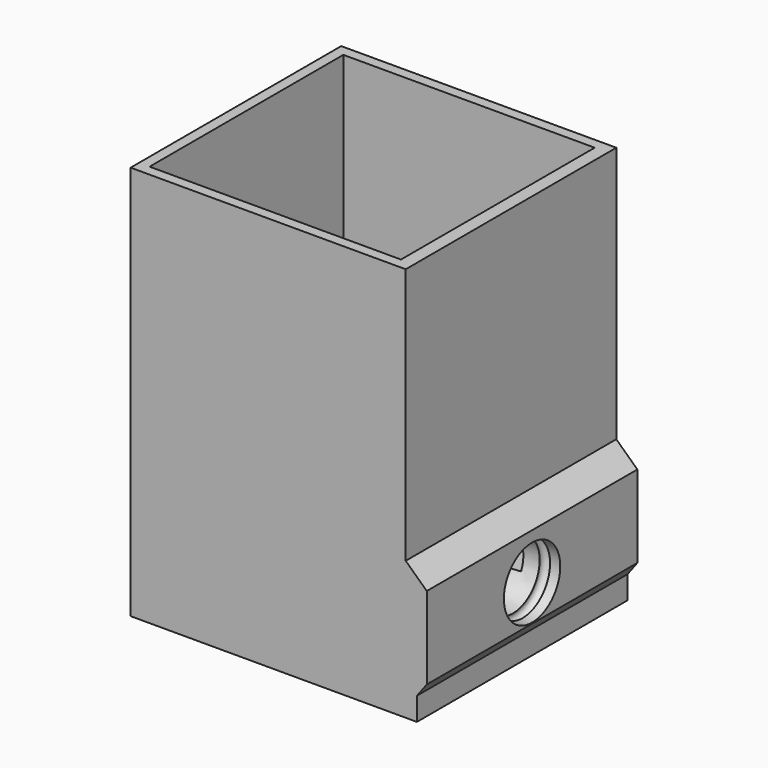
from build123d import *

# Parameters (mm, degrees)
SKETCH010_W  = 45
SKETCH010_H  = 40
PAD005_DEPTH = 60
SKETCH012_W  = 38.2
SKETCH012_H  = 36.8
SKETCH003_R  = 5.4
SKETCH011_R  = 4.4
SKETCH046_R  = 0.8


with BuildPart() as part:
    # Sketch010 → Pad005 (new body)
    with BuildSketch(Plane.XY):
        with Locations((-40.3, 0)):
            Rectangle(SKETCH010_W, SKETCH010_H)
    extrude(amount=PAD005_DEPTH)

    # SubtractivePipe002: sweep along a path in Sketch028
    with BuildLine(Plane.XZ) as subtractivepipe002_path:
        Line((-39, 9), (-39, 60))
    # Sketch012 → SubtractivePipe002 (sweep, cut)
    with BuildSketch(Plane.XY.offset(9)):
        with Locations((-42.1, 0)):
            Rectangle(SKETCH012_W, SKETCH012_H)
    sweep(path=subtractivepipe002_path.line, mode=Mode.SUBTRACT)

    # Sketch003 (on Face10 of SubtractivePipe) → SubtractiveLoft section 0
    with BuildSketch(Plane(origin=(-17.3, 0, 0), x_dir=(0, -1, 0), z_dir=(-1, 0, 0))):
        with Locations((0, 11)):
            Circle(SKETCH003_R)
    # Sketch011 → SubtractiveLoft section 1
    with BuildSketch(Plane(origin=(-27.8, 0, 0), x_dir=(-0.001529, -0.999998, -0.001524), z_dir=(-0.999994, 0.001524, 0.003058))):
        with Locations((0, 11)):
            Circle(SKETCH011_R)
    loft(mode=Mode.SUBTRACT)

    # SubtractivePipe003: sweep along a path in Sketch034
    with BuildLine(Plane.YZ.offset(-17.8)) as subtractivepipe003_path:
        Line((-20, 4), (20, 4))
    # Sketch033 → SubtractivePipe003 (sweep, cut)
    with BuildSketch(Plane.XZ.offset(20)):
        Polygon((-17.8, 0), (-19.3, 0), (-19.3, 3.5), (-17.8, 5.5), align=None)
    sweep(path=subtractivepipe003_path.line, mode=Mode.SUBTRACT)

    # SubtractivePipe004: sweep along a path in Sketch037
    with BuildLine(Plane.YZ.offset(-17.8)) as subtractivepipe004_path:
        Line((-20, 36), (20, 36))
    # Sketch036 → SubtractivePipe004 (sweep, cut)
    with BuildSketch(Plane.XZ.offset(20)):
        Polygon((-21, 60), (-21, 21), (-17.8, 18), (-17.8, 60), align=None)
    sweep(path=subtractivepipe004_path.line, mode=Mode.SUBTRACT)

    # SubtractivePipe007: sweep along a path in Sketch045
    with BuildLine(Plane.YZ.offset(-17.8)) as subtractivepipe007_path:
        CenterArc((0, 11), 5.4, 0, 360)
    # Sketch046 → SubtractivePipe007 (sweep, cut)
    with BuildSketch(Plane(origin=(0, -2.3, 10.5), x_dir=(1, 0, 0), z_dir=(0, 0, 1))):
        with Locations((-20, -3.12)):
            Circle(SKETCH046_R)
    sweep(path=subtractivepipe007_path.line, mode=Mode.SUBTRACT)


solid = part.part
